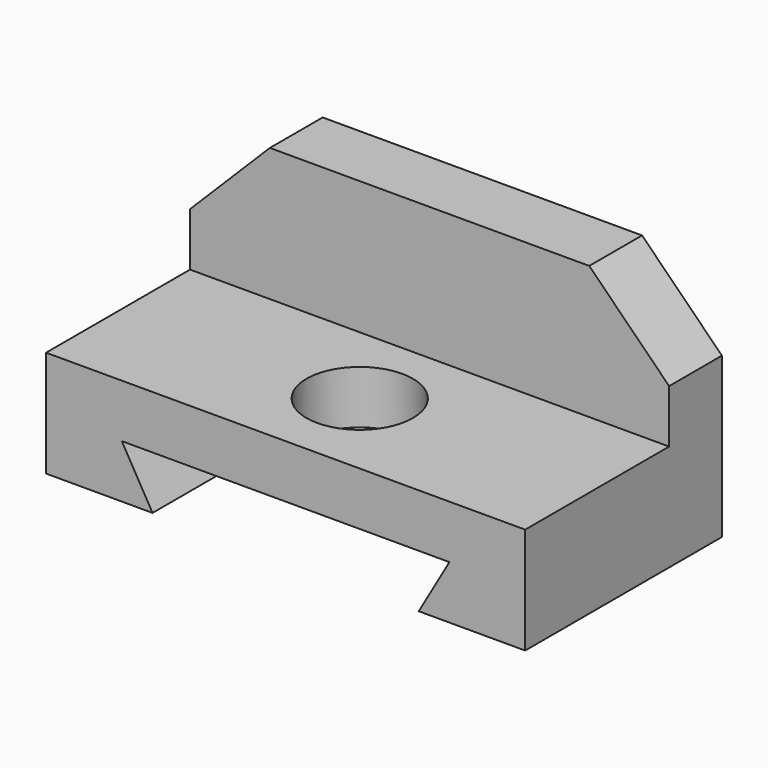
from build123d import *

# Parameters (mm, degrees)
F0_W     = 114.3
F0_H     = 57.15
F1_DEPTH = 58.674
F2_W     = 114.3
F2_H     = 42.926
F3_DEPTH = 31.75
F5_DEPTH = 15.748
F7_DEPTH = 58.674
F9_DEPTH = 12.7


with BuildPart() as f1:
    # F0 (on Front) → F1 (new body)
    with BuildSketch(Plane.XZ):
        with Locations((-6.213398, -9.336713)):
            Rectangle(F0_W, F0_H)
    extrude(amount=F1_DEPTH)

    # F2 (on face) → F3 (cut)
    with BuildSketch(Plane.XY.offset(19.238287)):
        with Locations((-6.213398, -37.211)):
            Rectangle(F2_W, F2_H)
    extrude(amount=-F3_DEPTH, mode=Mode.SUBTRACT)

    # F4 (on face) → F5 (cut)
    with BuildSketch(Plane.XZ.offset(15.748)):
        Polygon((50.936602, 19.238287), (31.886602, 19.238287), (50.936602, 0.188287), align=None)
        Polygon((-44.313398, 19.238287), (-63.363398, 19.238287), (-63.363398, 0.188287), align=None)
    extrude(amount=-F5_DEPTH, mode=Mode.SUBTRACT)

    # F6 (on face) → F7 (cut)
    with BuildSketch(Plane.XZ.offset(58.674)):
        Polygon((-37.963398, -37.911713), (25.536602, -37.911713), (32.86895, -25.211713), (25.536602, -25.211713), (-37.963398, -25.211713), (-45.295746, -25.211713), align=None)
    extrude(amount=-F7_DEPTH, mode=Mode.SUBTRACT)

    # F8 (on face) → F9 (cut)
    with BuildSketch(Plane.XY.offset(-12.511713)):
        with BuildLine():
            ThreePointArc((6.486602, -36.576), (-15.193654, -27.595744), (-6.213398, -49.276))
            ThreePointArc((-6.213398, -49.276), (2.766858, -45.556256), (6.486602, -36.576))
        make_face()
    extrude(amount=-F9_DEPTH, mode=Mode.SUBTRACT)


solid = f1.part
